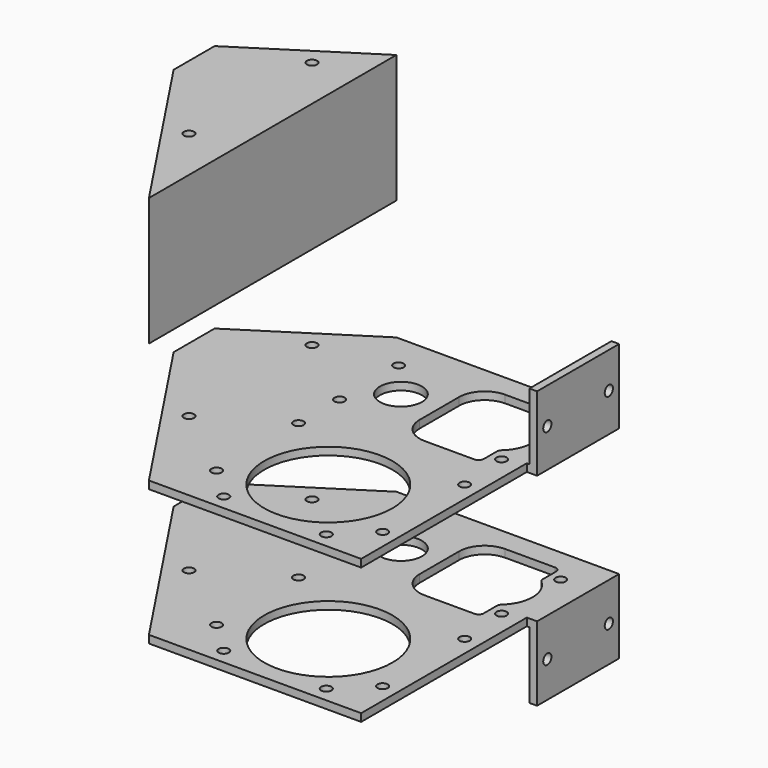
from build123d import *

# Parameters (mm, degrees)
F0_R      = 1
F0_R_2    = 12.5
F0_R_3    = 4.1
F1_DEPTH  = 1.5
F2_W      = 20
F2_H      = 1.5
F3_DEPTH  = 2
F4_W      = 1.5
F4_H      = 20
F5_DEPTH  = 13
F8_R      = 1
F9_DEPTH  = 1.5
F10_W     = 60.4
F10_H     = 1.5
F11_DEPTH = 26.5
F12_R     = 1
F13_DEPTH = 1.5
F16_R     = 1
F17_DEPTH = 25


with BuildPart() as f1:
    # F0 (on Top) → F1 (new body)
    with BuildSketch(Plane.XY):
        Polygon((19.2, -14.2), (19.2, 14.2), (-19.2, 14.2), (-19.2, -14.2), (-19.2, -46.2), (19.2, -46.2), align=None)
        with Locations((-10, -43.2)):
            Circle(F0_R, mode=Mode.SUBTRACT)
        with Locations((-16.2, -37.2)):
            Circle(F0_R, mode=Mode.SUBTRACT)
        with Locations((-16.2, -17.2)):
            Circle(F0_R, mode=Mode.SUBTRACT)
        with Locations((10, -43.2)):
            Circle(F0_R, mode=Mode.SUBTRACT)
        with Locations((16.2, -37.2)):
            Circle(F0_R, mode=Mode.SUBTRACT)
        with Locations((0, -30.2)):
            Circle(F0_R_2, mode=Mode.SUBTRACT)
        with Locations((16.2, -17.2)):
            Circle(F0_R, mode=Mode.SUBTRACT)
        with Locations((-16.2, -7.2)):
            Circle(F0_R, mode=Mode.SUBTRACT)
        with Locations((-10, 0)):
            Circle(F0_R_3, mode=Mode.SUBTRACT)
        with Locations((-16.2, 7.2)):
            Circle(F0_R, mode=Mode.SUBTRACT)
        with Locations((15.4, -7.2)):
            Circle(F0_R, mode=Mode.SUBTRACT)
        with BuildLine():
            ThreePointArc((-2.5, 4.8), (-1.035534, 8.335534), (2.5, 9.8))
            Line((2.5, 9.8), (12.2, 9.8))
            ThreePointArc((12.2, 9.8), (12.907107, 9.507107), (13.2, 8.8))
            Line((13.2, 8.8), (13.2, 5.59017))
            ThreePointArc((13.2, 5.59017), (13.287129, 5.181922), (13.533333, 4.844814))
            ThreePointArc((13.533333, 4.844814), (15.7, 0), (13.533333, -4.844814))
            ThreePointArc((13.533333, -4.844814), (13.287129, -5.181922), (13.2, -5.59017))
            Line((13.2, -5.59017), (13.2, -8.8))
            ThreePointArc((13.2, -8.8), (12.907107, -9.507107), (12.2, -9.8))
            Line((12.2, -9.8), (2.5, -9.8))
            ThreePointArc((2.5, -9.8), (-1.035534, -8.335534), (-2.5, -4.8))
            Line((-2.5, -4.8), (-2.5, 4.8))
        make_face(mode=Mode.SUBTRACT)
        with Locations((15.4, 7.2)):
            Circle(F0_R, mode=Mode.SUBTRACT)
    extrude(amount=F1_DEPTH)

    # F2 (on face) → F3 (join)
    with BuildSketch(Plane.YZ.offset(19.2)):
        with Locations((4.2, 0.75)):
            Rectangle(F2_W, F2_H)
    extrude(amount=F3_DEPTH)

    # F4 (on face) → F5 (join)
    with BuildSketch(Plane.XY.offset(1.5)):
        with Locations((20.45, 4.2)):
            Rectangle(F4_W, F4_H)
    extrude(amount=F5_DEPTH)


with BuildPart() as f7_1:
    # F7: instance of F1
    add(f1.part.mirror(Plane.XY.offset(-12.5)))


with BuildPart() as f9_tool:
    # F8 (on face) → F9 (new body, through all)
    with BuildSketch(Plane.YZ.offset(21.2)):
        with Locations((11.7, 7.5)):
            Circle(F8_R)
        with Locations((-3.3, 7.5)):
            Circle(F8_R)
        with Locations((11.7, -32.5)):
            Circle(F8_R)
        with Locations((-3.3, -32.5)):
            Circle(F8_R)
    extrude(amount=-F9_DEPTH)


with BuildPart() as f1_1:
    add(f1.part)

    # F9: cut by f9_tool
    add(f9_tool.part, mode=Mode.SUBTRACT)

    # F10 (on face) → F11 (join)
    with BuildSketch(Plane(origin=(-19.2, 0, 0), x_dir=(0, -1, 0), z_dir=(-1, 0, 0))):
        with Locations((16, 0.75)):
            Rectangle(F10_W, F10_H)
    extrude(amount=F11_DEPTH)

    # F12 (on face) → F13 (cut, through all)
    with BuildSketch(Plane.XY.offset(1.5)):
        Polygon((-22.2, -46.2), (-45.7, -10.8), (-45.7, -46.2), align=None)
        Polygon((-45.7, -0.8), (-22.25, 14.2), (-45.7, 14.2), align=None)
        with Locations((-30.7, 4.2)):
            Circle(F12_R)
        with Locations((-30.7, -25.8)):
            Circle(F12_R)
    extrude(amount=-F13_DEPTH, mode=Mode.SUBTRACT)


with BuildPart() as f7_1_1:
    add(f7_1.part)

    # F9: cut by f9_tool
    add(f9_tool.part, mode=Mode.SUBTRACT)

    # F14: F1 across plane
    add(f1_1.part.mirror(Plane.XY.offset(-12.5)))


with BuildPart() as f17:
    # F16 (on offset) → F17 (new body)
    with BuildSketch(Plane.XY.offset(25)):
        Polygon((-22.2, -46.2), (-22.25, 14.2), (-45.7, -0.8), (-45.7, -10.8), align=None)
        with Locations((-30.7, -25.8)):
            Circle(F16_R, mode=Mode.SUBTRACT)
        with Locations((-30.7, 4.2)):
            Circle(F16_R, mode=Mode.SUBTRACT)
    extrude(amount=F17_DEPTH)


solid = Compound([f1_1.part, f7_1_1.part, f17.part])
